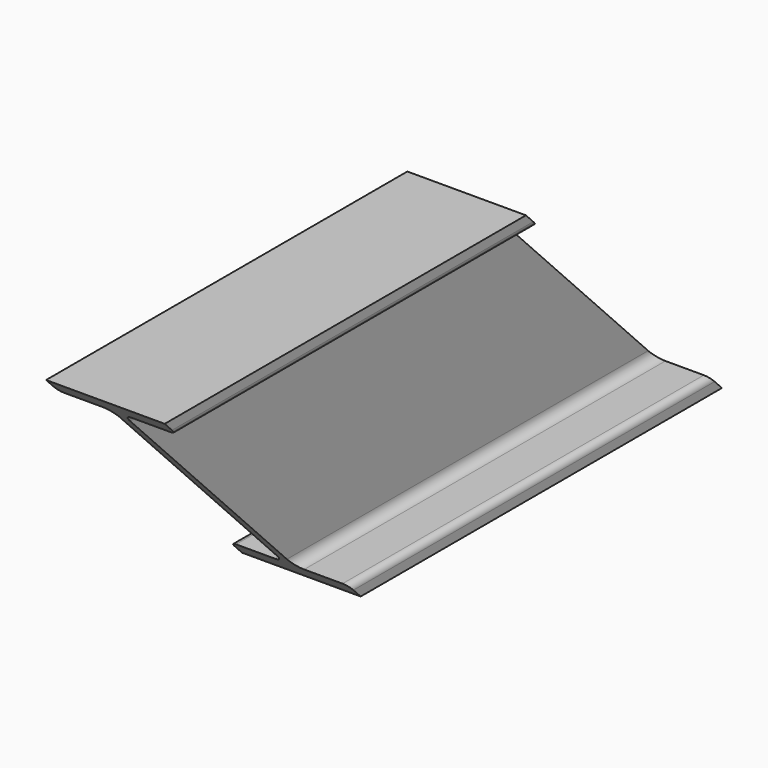
from build123d import *

# Parameters (mm, degrees)
F1_DEPTH      = 2250
F3_R          = 5.4
F4_DEPTH      = 33.001
F4_DEPTH_BACK = 33.001
F6_DEPTH      = 33.001
F6_DEPTH_BACK = 33.001
F7_R          = 3.4


with BuildPart() as f1:
    # F0 (on Front) → F1 (new body, symmetric)
    with BuildSketch(Plane.XZ):
        Polygon((33, 70), (-33, 70), (-33, 61.4), (-2.85, 61.4), (-2.85, -61.4), (-33, -61.4), (-33, -70), (33, -70), (33, -61.4), (2.85, -61.4), (2.85, 61.4), (33, 61.4), align=None)
    extrude(amount=F1_DEPTH, both=True)

    # F3
    f3_edges = [f1.edges().sort_by_distance(p)[0] for p in [
        (2.85, 0, 61.4),
        (-2.85, 0, 61.4),
        (-2.85, 0, -61.4),
        (2.85, 0, -61.4),
    ]]
    fillet(f3_edges, radius=F3_R)

    # F2 (on Right) → F4 (cut, two sides)
    with BuildSketch(Plane.YZ) as f4_sk:
        Polygon((2250, 70), (450.7170761245, -1681.8248605672), (2250, -1681.8248605672), align=None)
        Polygon((450.7170761245, -1681.8248605672), (-1254.9014796783, 70), (-2250, 70), (-2250, -1681.8248605672), align=None)
    extrude(amount=-F4_DEPTH, mode=Mode.SUBTRACT)
    extrude(f4_sk.sketch, amount=F4_DEPTH_BACK, mode=Mode.SUBTRACT)

    # F5 (on Right) → F6 (cut, two sides)
    with BuildSketch(Plane.YZ) as f6_sk:
        Polygon((1738.922081788, -70), (1602.614735553, 70), (-1254.9014796783, 70), (-1118.5941334433, -70), align=None)
        Polygon((1853.8384793795, 70), (1990.1458256145, -70), (2106.2073098671, -70), (2250, 70), align=None)
    extrude(amount=-F6_DEPTH, mode=Mode.SUBTRACT)
    extrude(f6_sk.sketch, amount=F6_DEPTH_BACK, mode=Mode.SUBTRACT)

    # F7
    f7_edges = [f1.edges().sort_by_distance(p)[0] for p in [
        (-33, 1856.160788, -61.4),
        (-33, 1736.599773, 61.4),
        (33, 1856.160788, -61.4),
        (33, 1736.599773, 61.4),
    ]]
    fillet(f7_edges, radius=F7_R)


solid = f1.part
